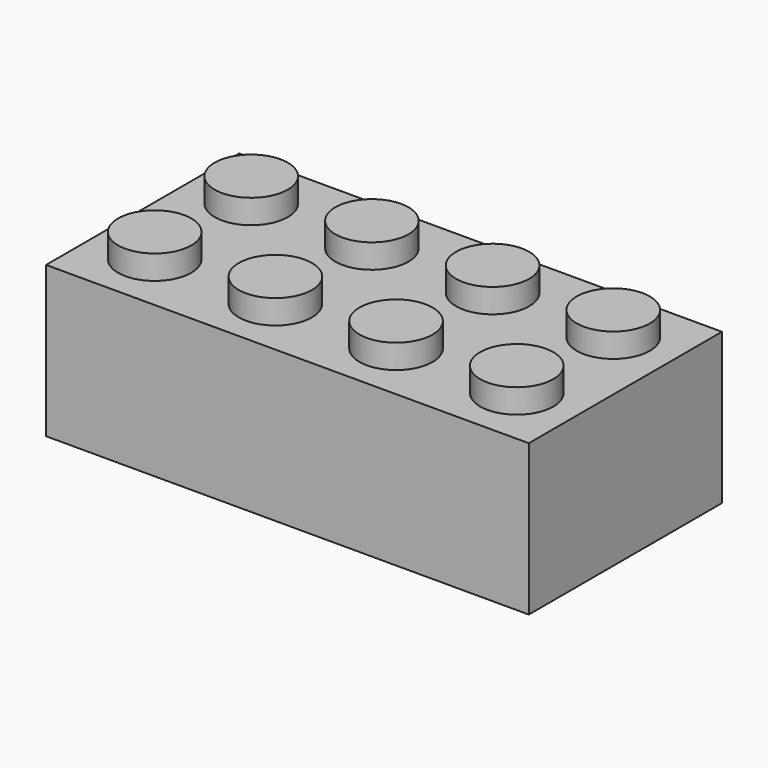
from build123d import *

# Parameters (mm, degrees)
F0_W     = 32
F0_H     = 16
F1_DEPTH = 10
F2_T     = -1.5
F3_R     = 2.425
F4_DEPTH = 1.6
F5_R     = 2.925
F6_DEPTH = 10


with BuildPart() as f1:
    # F0 (on Top) → F1 (new body)
    with BuildSketch(Plane.XY):
        Rectangle(F0_W, F0_H)
    extrude(amount=F1_DEPTH)

    # F2
    f2_openings = [f1.faces().sort_by_distance(p)[0] for p in [
        (0, 0, 0),
    ]]
    offset(amount=F2_T, openings=f2_openings)

    # F3 (on face) → F4 (join)
    with BuildSketch(Plane.XY.offset(10)):
        with Locations((-12, -4)):
            Circle(F3_R)
        with Locations((-12, 4)):
            Circle(F3_R)
        with Locations((-4, -4)):
            Circle(F3_R)
        with Locations((-4, 4)):
            Circle(F3_R)
        with Locations((4, -4)):
            Circle(F3_R)
        with Locations((4, 4)):
            Circle(F3_R)
        with Locations((12, -4)):
            Circle(F3_R)
        with Locations((12, 4)):
            Circle(F3_R)
    extrude(amount=F4_DEPTH)

    # F5 (on face) → F6 (join)
    with BuildSketch(Plane.XY.offset(10)):
        with Locations((-8, 0)):
            Circle(F5_R)
        Circle(F5_R)
        with Locations((8, 0)):
            Circle(F5_R)
    extrude(amount=-F6_DEPTH)


solid = f1.part
